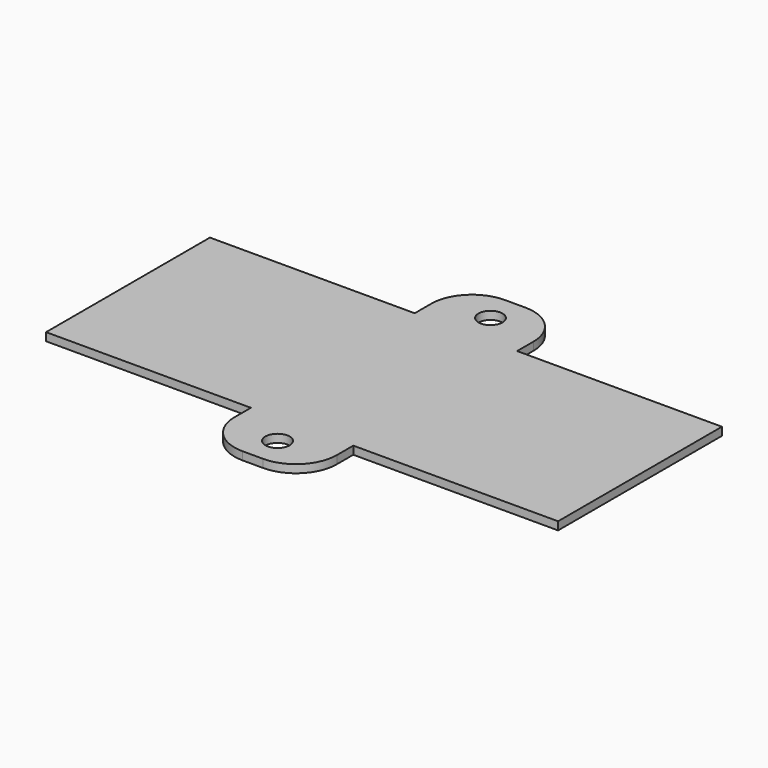
from build123d import *

# Parameters (mm, degrees)
F0_R     = 1.5
F1_DEPTH = 1
F2_R     = 5.08


with BuildPart() as f1:
    # F0 (on Top) → F1 (new body)
    with BuildSketch(Plane.XY):
        Polygon((-6.35, 12.7), (6.35, 12.7), (6.35, 16.51), (6.35, 20.32), (-6.35, 20.32), align=None)
        with Locations((0, 16.51)):
            Circle(F0_R, mode=Mode.SUBTRACT)
        Polygon((31.75, -12.7), (31.75, 12.7), (6.35, 12.7), (-6.35, 12.7), (-31.75, 12.7), (-31.75, -12.7), (-6.35, -12.7), (6.35, -12.7), align=None)
        Polygon((6.35, -16.51), (6.35, -12.7), (-6.35, -12.7), (-6.35, -20.32), (6.35, -20.32), align=None)
        with Locations((0, -16.51)):
            Circle(F0_R, mode=Mode.SUBTRACT)
    extrude(amount=F1_DEPTH)

    # F2
    f2_edges = [f1.edges().sort_by_distance(p)[0] for p in [
        (6.35, 20.32, 0.5),
        (-6.35, 20.32, 0.5),
        (-6.35, -20.32, 0.5),
        (6.35, -20.32, 0.5),
    ]]
    fillet(f2_edges, radius=F2_R)


solid = f1.part
